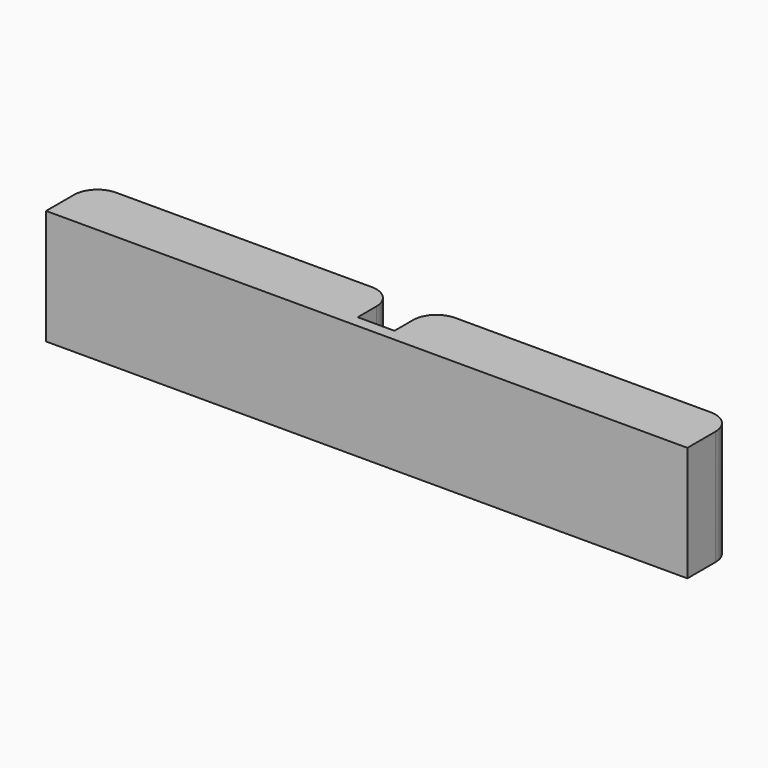
from build123d import *

# Parameters (mm, degrees)
F0_W     = 25.9
F0_H     = 9.85
F0_W_2   = 4.5
F0_H_2   = 4.5
F1_DEPTH = 5
F2_DEPTH = 4.08
F2_TAPER = 0.5
F3_W     = 3.15
F3_H     = 9.85
F4_DEPTH = 1
F5_R     = 2


with BuildPart() as f1:
    # F0 (on Front) → F1 (new body)
    with BuildSketch(Plane.XZ):
        with Locations((-28.4469606161, 4.925)):
            Rectangle(F0_W, F0_H)
        with Locations((-32.7639606161, 4.925)):
            Rectangle(F0_W_2, F0_H_2, mode=Mode.SUBTRACT)
        with Locations((-24.1299606161, 4.925)):
            Rectangle(F0_W_2, F0_H_2, mode=Mode.SUBTRACT)
        with Locations((-24.1299606161, 4.925)):
            Rectangle(F0_W_2, F0_H_2)
        with Locations((-32.7639606161, 4.925)):
            Rectangle(F0_W_2, F0_H_2)
    extrude(amount=F1_DEPTH)


with BuildPart() as f1b:
    # F0 (on Front) → F1, piece 2 (new body)
    with BuildSketch(Plane.XZ):
        with Locations((0.6030393839, 4.925)):
            Rectangle(F0_W, F0_H)
        with Locations((-3.7139606161, 4.925)):
            Rectangle(F0_W_2, F0_H_2, mode=Mode.SUBTRACT)
        with Locations((4.9200393839, 4.925)):
            Rectangle(F0_W_2, F0_H_2, mode=Mode.SUBTRACT)
        with Locations((4.9200393839, 4.925)):
            Rectangle(F0_W_2, F0_H_2)
        with Locations((-3.7139606161, 4.925)):
            Rectangle(F0_W_2, F0_H_2)
    extrude(amount=F1_DEPTH)


with BuildPart() as f2_tool:
    # F0 (on Front) → F2 (new body)
    with BuildSketch(Plane.XZ):
        with Locations((4.9200393839, 4.925)):
            Rectangle(F0_W_2, F0_H_2)
        with Locations((-3.7139606161, 4.925)):
            Rectangle(F0_W_2, F0_H_2)
        with Locations((-24.1299606161, 4.925)):
            Rectangle(F0_W_2, F0_H_2)
        with Locations((-32.7639606161, 4.925)):
            Rectangle(F0_W_2, F0_H_2)
    extrude(amount=F2_DEPTH, taper=F2_TAPER)


with BuildPart() as f1_1:
    add(f1.part)

    # F2: cut by f2_tool
    add(f2_tool.part, mode=Mode.SUBTRACT)



with BuildPart() as f1b_1:
    add(f1b.part)

    # F2: cut by f2_tool
    add(f2_tool.part, mode=Mode.SUBTRACT)


with BuildPart() as f1_2:
    add(f1_1.part)

    add(f1b_1.part)  # F4 merges F1b
    # F3 (on face) → F4 (join)
    with BuildSketch(Plane.XZ.offset(5)):
        with Locations((-13.9219606161, 4.925)):
            Rectangle(F3_W, F3_H)
    extrude(amount=-F4_DEPTH)

    # F5
    f5_edges = [f1_2.edges().sort_by_distance(p)[0] for p in [
        (-12.346961, 0, 4.925),
        (-15.496961, 0, 4.925),
        (13.553039, 0, 4.925),
        (-41.396961, 0, 4.925),
    ]]
    fillet(f5_edges, radius=F5_R)


solid = f1_2.part
